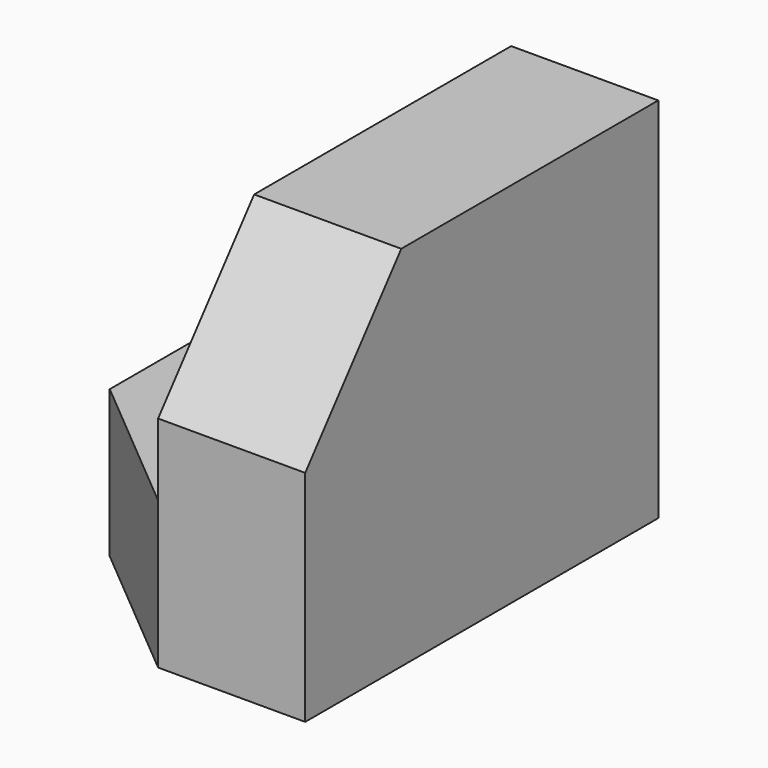
from build123d import *

# Parameters (mm, degrees)
F1_DEPTH = 38.1
F3_DEPTH = 25.4
F5_DEPTH = 25.4


with BuildPart() as f1:
    # F0 (on Front) → F1 (new body)
    with BuildSketch(Plane.XZ):
        Polygon((0, 12.7), (0, 0), (25.4, 0), (25.4, 31.75), (12.7, 31.75), (12.7, 12.7), align=None)
    extrude(amount=F1_DEPTH)

    # F2 (on face) → F3 (cut)
    with BuildSketch(Plane.XY.offset(12.7)):
        Polygon((0, -38.1), (12.7, -38.1), (0, -27.445292), align=None)
    extrude(amount=-F3_DEPTH, mode=Mode.SUBTRACT)

    # F4 (on face) → F5 (cut)
    with BuildSketch(Plane(origin=(12.7, 0, 0), x_dir=(0, -1, 0), z_dir=(-1, 0, 0))):
        Polygon((27.73655, 31.75), (38.1, 18.929737), (38.1, 31.75), align=None)
    extrude(amount=-F5_DEPTH, mode=Mode.SUBTRACT)


solid = f1.part
